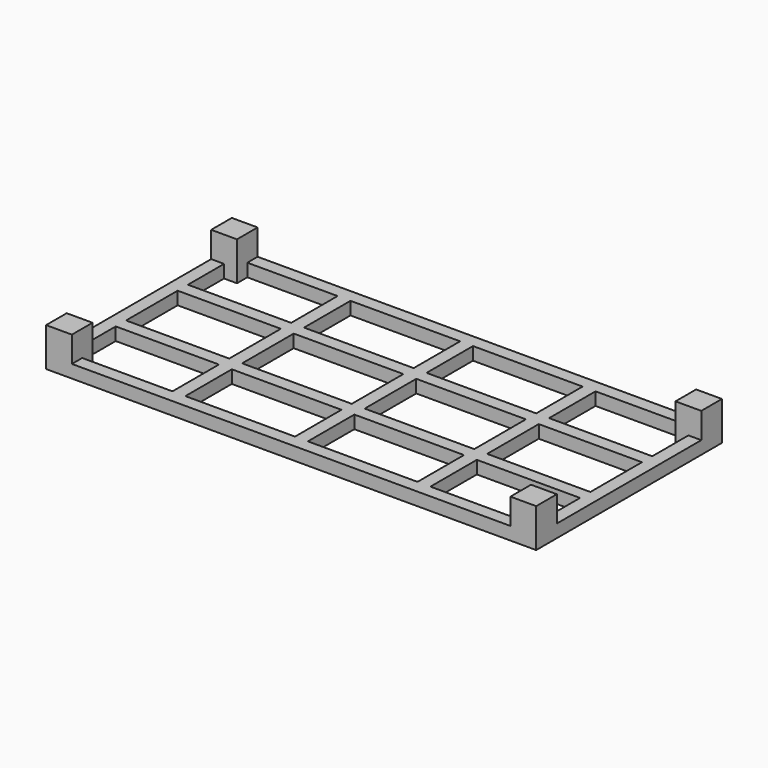
from build123d import *

# Parameters (mm, degrees)
F0_W     = 42.5
F0_H     = 22.5
F0_W_2   = 40
F0_H_2   = 25
F1_DEPTH = 5
F3_DEPTH = 10


with BuildPart() as f1:
    # F0 (on Top) → F1 (new body)
    with BuildSketch(Plane.XY):
        Polygon((10, 5), (10, 0), (180, 0), (180, 5), (145, 5), (145, 27.5), (185, 27.5), (185, 10), (190, 10), (190, 80), (185, 80), (185, 62.5), (145, 62.5), (145, 85), (180, 85), (180, 90), (10, 90), (10, 85), (45, 85), (45, 62.5), (5, 62.5), (5, 80), (0, 80), (0, 10), (5, 10), (5, 27.5), (45, 27.5), (45, 5), align=None)
        with Locations((71.25, 16.25)):
            Rectangle(F0_W, F0_H, mode=Mode.SUBTRACT)
        with Locations((118.75, 16.25)):
            Rectangle(F0_W, F0_H, mode=Mode.SUBTRACT)
        with Locations((25, 45)):
            Rectangle(F0_W_2, F0_H_2, mode=Mode.SUBTRACT)
        with Locations((71.25, 45)):
            Rectangle(F0_W, F0_H_2, mode=Mode.SUBTRACT)
        with Locations((71.25, 73.75)):
            Rectangle(F0_W, F0_H, mode=Mode.SUBTRACT)
        with Locations((118.75, 45)):
            Rectangle(F0_W, F0_H_2, mode=Mode.SUBTRACT)
        with Locations((165, 45)):
            Rectangle(F0_W_2, F0_H_2, mode=Mode.SUBTRACT)
        with Locations((118.75, 73.75)):
            Rectangle(F0_W, F0_H, mode=Mode.SUBTRACT)
        Polygon((0, 90), (0, 80), (5, 80), (10, 80), (10, 85), (10, 90), align=None)
        Polygon((0, 10), (0, 0), (10, 0), (10, 5), (10, 10), (5, 10), align=None)
        Polygon((185, 80), (190, 80), (190, 90), (180, 90), (180, 85), (180, 80), align=None)
        Polygon((180, 5), (180, 0), (190, 0), (190, 10), (185, 10), (180, 10), align=None)
    extrude(amount=F1_DEPTH)

    # F2 (on face) → F3 (join)
    with BuildSketch(Plane.XY.offset(5)):
        Polygon((10, 90), (0, 90), (0, 80), (5, 80), (10, 80), (10, 85), align=None)
        Polygon((190, 90), (180, 90), (180, 85), (180, 80), (185, 80), (190, 80), align=None)
        Polygon((190, 0), (190, 10), (185, 10), (180, 10), (180, 5), (180, 0), align=None)
        Polygon((5, 10), (0, 10), (0, 0), (10, 0), (10, 5), (10, 10), align=None)
    extrude(amount=F3_DEPTH)


solid = f1.part
